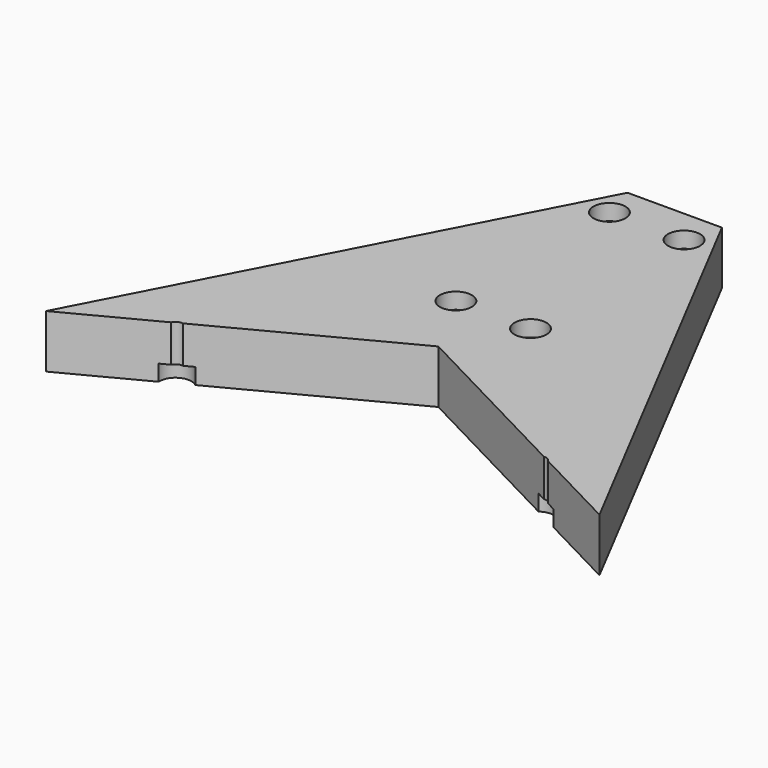
from build123d import *

# Parameters (mm, degrees)
CYLINDER423_R               = 3
CYLINDER423_DEPTH           = 4
CYLINDER422_R               = 3
CYLINDER422_DEPTH           = 4
CYLINDER420_R               = 3
CYLINDER420_DEPTH           = 4
CYLINDER421_R               = 3
CYLINDER421_DEPTH           = 4
COMPOUND319_PLACEMENT_ANGLE = 90
CYLINDER419_R               = 1.5
CYLINDER419_DEPTH           = 20
CYLINDER418_R               = 1.5
CYLINDER418_DEPTH           = 20
CYLINDER416_R               = 1.5
CYLINDER416_DEPTH           = 20
CYLINDER417_R               = 1.5
CYLINDER417_DEPTH           = 20
COMPOUND318_PLACEMENT_ANGLE = 90
CYLINDER309_R               = 1.5
CYLINDER309_DEPTH           = 50
CYLINDER310_R               = 1.5
CYLINDER310_DEPTH           = 50
CYLINDER307_R               = 3
CYLINDER307_DEPTH           = 4
CYLINDER308_R               = 3
CYLINDER308_DEPTH           = 4
PAD_DEPTH                   = 10


with BuildPart() as obj1:
    # Cylinder423 → Cylinder423 (new body)
    with BuildSketch(Plane(origin=(-7, -34, 37), x_dir=(1, 0, 0), z_dir=(0, -1, 0))):
        Circle(CYLINDER423_R)
    extrude(amount=CYLINDER423_DEPTH)


with BuildPart() as obj2:
    # Cylinder422 → Cylinder422 (new body)
    with BuildSketch(Plane(origin=(7, -34, 73), x_dir=(1, 0, 0), z_dir=(0, -1, 0))):
        Circle(CYLINDER422_R)
    extrude(amount=CYLINDER422_DEPTH)


with BuildPart() as obj3:
    # Cylinder420 → Cylinder420 (new body)
    with BuildSketch(Plane(origin=(-7, -34, 73), x_dir=(1, 0, 0), z_dir=(0, -1, 0))):
        Circle(CYLINDER420_R)
    extrude(amount=CYLINDER420_DEPTH)


with BuildPart() as compound319:
    # Cylinder421 → Cylinder421 (new body)
    with BuildSketch(Plane(origin=(7, -34, 37), x_dir=(1, 0, 0), z_dir=(0, -1, 0))):
        Circle(CYLINDER421_R)
    extrude(amount=CYLINDER421_DEPTH)

    # Compound319: union obj1, obj2, obj3
    add(obj1.part)
    add(obj2.part)
    add(obj3.part)


with BuildPart() as compound319_1:
    # Compound319 placement: moved
    add(compound319.part.moved(Location((0, 141, 45))).rotate(Axis((0, 141, 45), (1, 0, 0)), COMPOUND319_PLACEMENT_ANGLE))


with BuildPart() as obj4:
    # Cylinder419 → Cylinder419 (new body)
    with BuildSketch(Plane(origin=(-7, -34, 37), x_dir=(1, 0, 0), z_dir=(0, -1, 0))):
        Circle(CYLINDER419_R)
    extrude(amount=CYLINDER419_DEPTH)


with BuildPart() as obj5:
    # Cylinder418 → Cylinder418 (new body)
    with BuildSketch(Plane(origin=(7, -34, 73), x_dir=(1, 0, 0), z_dir=(0, -1, 0))):
        Circle(CYLINDER418_R)
    extrude(amount=CYLINDER418_DEPTH)


with BuildPart() as obj6:
    # Cylinder416 → Cylinder416 (new body)
    with BuildSketch(Plane(origin=(-7, -34, 73), x_dir=(1, 0, 0), z_dir=(0, -1, 0))):
        Circle(CYLINDER416_R)
    extrude(amount=CYLINDER416_DEPTH)


with BuildPart() as compound318:
    # Cylinder417 → Cylinder417 (new body)
    with BuildSketch(Plane(origin=(7, -34, 37), x_dir=(1, 0, 0), z_dir=(0, -1, 0))):
        Circle(CYLINDER417_R)
    extrude(amount=CYLINDER417_DEPTH)

    # Compound318: union obj4, obj5, obj6
    add(obj4.part)
    add(obj5.part)
    add(obj6.part)


with BuildPart() as compound318_1:
    # Compound318 placement: moved
    add(compound318.part.moved(Location((0, 141, 45))).rotate(Axis((0, 141, 45), (1, 0, 0)), COMPOUND318_PLACEMENT_ANGLE))


with BuildPart() as obj7:
    # Cylinder309 → Cylinder309 (new body)
    with BuildSketch(Plane(origin=(34, 36, 0), x_dir=(1, 0, 0), z_dir=(0, 0, 1))):
        Circle(CYLINDER309_R)
    extrude(amount=CYLINDER309_DEPTH)


with BuildPart() as compound289:
    # Cylinder310 → Cylinder310 (new body)
    with BuildSketch(Plane(origin=(-34, 36, 0), x_dir=(1, 0, 0), z_dir=(0, 0, 1))):
        Circle(CYLINDER310_R)
    extrude(amount=CYLINDER310_DEPTH)

    # Compound289: union obj7
    add(obj7.part)


with BuildPart() as obj8:
    # Cylinder307 → Cylinder307 (new body)
    with BuildSketch(Plane(origin=(-34, 36, -1), x_dir=(1, 0, 0), z_dir=(0, 0, 1))):
        Circle(CYLINDER307_R)
    extrude(amount=CYLINDER307_DEPTH)


with BuildPart() as compound288:
    # Cylinder308 → Cylinder308 (new body)
    with BuildSketch(Plane(origin=(34, 36, -1), x_dir=(1, 0, 0), z_dir=(0, 0, 1))):
        Circle(CYLINDER308_R)
    extrude(amount=CYLINDER308_DEPTH)

    # Compound288: union obj8
    add(obj8.part)


with BuildPart() as cut167:
    # Sketch → Pad (new body)
    with BuildSketch(Plane.XY):
        Polygon((-51.883896, 28.015725), (-8.825714, 110.528281), (8.883465, 110.528281), (51.774643, 28.198511), (0, 55.140807), align=None)
    extrude(amount=PAD_DEPTH)

    # Cut134: cut Compound288
    add(compound288.part, mode=Mode.SUBTRACT)

    # Cut135: cut Compound289
    add(compound289.part, mode=Mode.SUBTRACT)

    # Cut165: cut Compound318
    add(compound318_1.part, mode=Mode.SUBTRACT)

    # Cut167: cut Compound319
    add(compound319_1.part, mode=Mode.SUBTRACT)


solid = cut167.part
